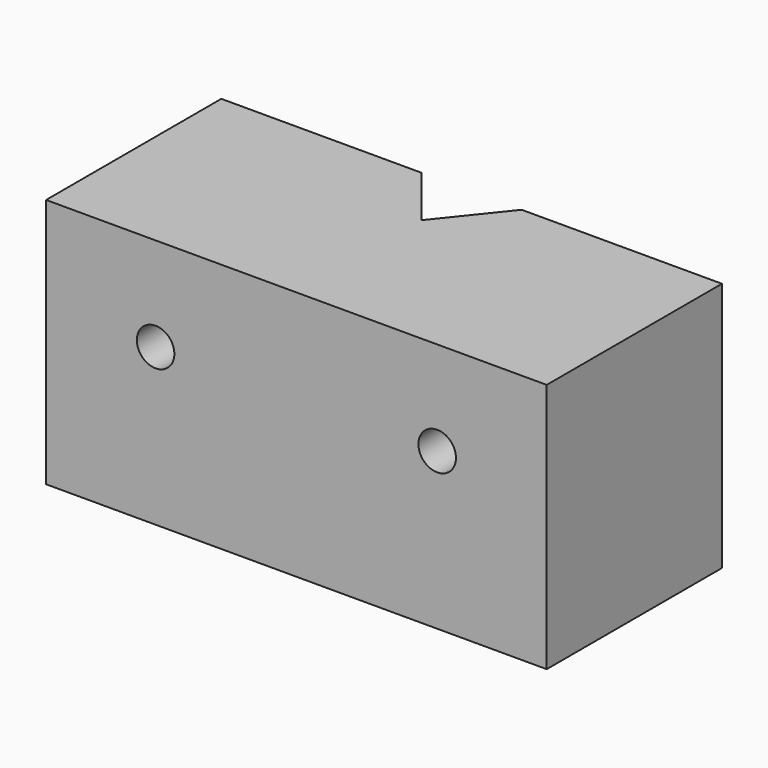
from build123d import *

# Parameters (mm, degrees)
F1_DEPTH = 40
F2_R     = 3
F3_DEPTH = 35.001


with BuildPart() as f1:
    # F0 (on Top) → F1 (new body)
    with BuildSketch(Plane.XY):
        Polygon((0, 35), (0, 0), (80, 0), (80, 35), (48, 35), (40, 25), (32, 35), align=None)
    extrude(amount=F1_DEPTH)

    # F2 (on face) → F3 (cut, through all)
    with BuildSketch(Plane.XZ):
        with Locations((17.5, 25)):
            Circle(F2_R)
        with Locations((62.5, 25)):
            Circle(F2_R)
    extrude(amount=-F3_DEPTH, mode=Mode.SUBTRACT)


solid = f1.part
